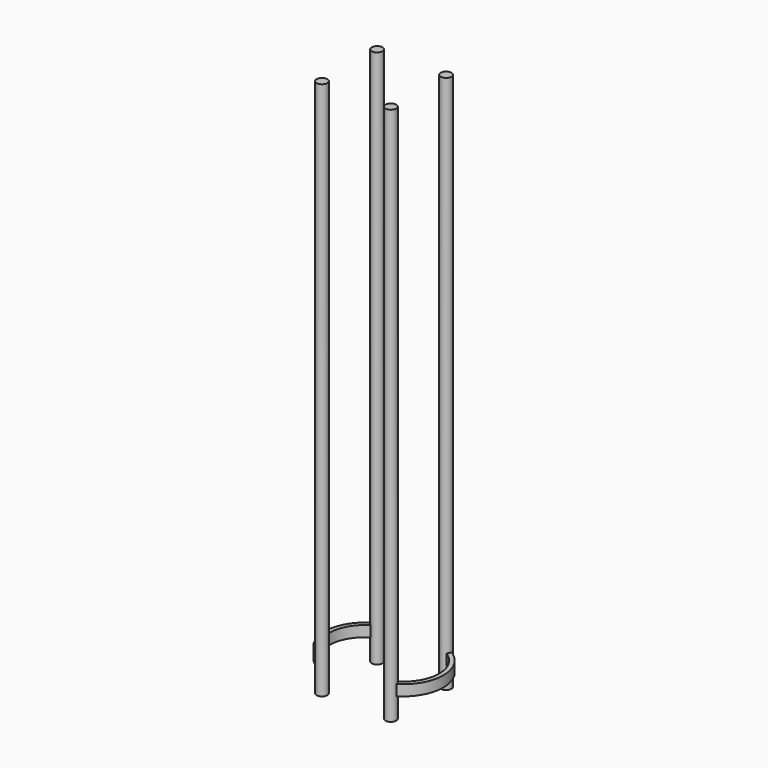
from build123d import *

# Parameters (mm, degrees)
F1_R     = 5
F2_DEPTH = 500
F6_W     = 10
F6_H     = 10
F8_W     = 10
F8_H     = 10


with BuildPart() as f2:
    # F1 (on Top) → F2 (new body)
    with BuildSketch(Plane.XY):
        with Locations((-31.8198051534, -31.8198051534)):
            Circle(F1_R)
    extrude(amount=F2_DEPTH)



with BuildPart() as f2b:
    # F1 (on Top) → F2, piece 2 (new body)
    with BuildSketch(Plane.XY):
        with Locations((-31.8198051534, 32.1723573601)):
            Circle(F1_R)
    extrude(amount=F2_DEPTH)


with BuildPart() as f2c:
    # F1 (on Top) → F2, piece 3 (new body)
    with BuildSketch(Plane.XY):
        with Locations((32.1723573601, 32.1723573601)):
            Circle(F1_R)
    extrude(amount=F2_DEPTH)



with BuildPart() as f2d:
    # F1 (on Top) → F2, piece 4 (new body)
    with BuildSketch(Plane.XY):
        with Locations((32.1723573601, -31.8198051534)):
            Circle(F1_R)
    extrude(amount=F2_DEPTH)


with BuildPart() as f2_1:
    add(f2.part)

    add(f2b.part)  # F7 merges F2b
    # F7: sweep along a path in F4
    with BuildLine(Plane.XY.offset(25)) as f7_path:
        ThreePointArc((-31.8198051534, 32.1723573601), (-52.6335165545, 0.1762761034), (-31.8198051534, -31.8198051534))
    # F6 (on plane+point) → F7 (sweep)
    with BuildSketch(Plane.XZ.offset(31.8198051534)):
        with Locations((-31.8198051534, 25)):
            Rectangle(F6_W, F6_H)
    sweep(path=f7_path.line)


with BuildPart() as f2c_1:
    add(f2c.part)

    add(f2d.part)  # F9 merges F2d
    # F9: sweep along a path in F4
    with BuildLine(Plane.XY.offset(25)) as f9_path:
        ThreePointArc((32.1723573601, -31.8198051534), (52.9860687612, 0.1762761034), (32.1723573601, 32.1723573601))
    # F8 (on plane+point) → F9 (sweep)
    with BuildSketch(Plane.XZ.offset(31.8198051534)):
        with Locations((32.1723573601, 25)):
            Rectangle(F8_W, F8_H)
    sweep(path=f9_path.line)


solid = Compound([f2_1.part, f2c_1.part])
